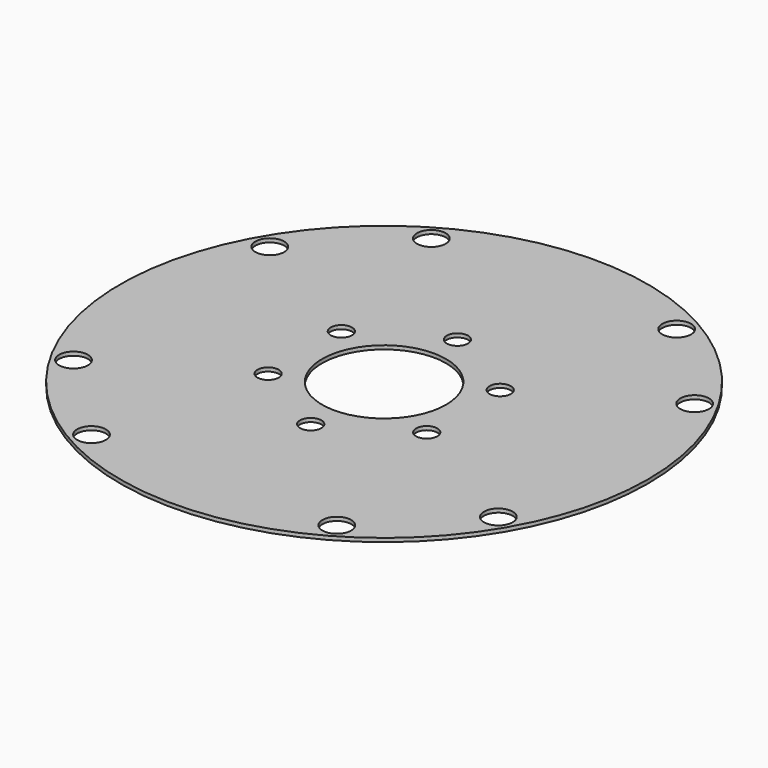
from build123d import *

# Parameters (mm, degrees)
F0_R     = 27.051
F0_R_2   = 6.35
F1_DEPTH = 0.381
F2_D     = 2.9464
F3_D     = 2.1844


with BuildPart() as f1:
    # F0 (on Top) → F1 (new body)
    with BuildSketch(Plane.XY):
        Circle(F0_R)
        Circle(F0_R_2, mode=Mode.SUBTRACT)
    extrude(amount=F1_DEPTH)

    # F2 (through all)
    with Locations(Plane(origin=(0, 0, 0), x_dir=(1, 0, 0), z_dir=(0, 0, -1))):
        with Locations((-21.7678, -12.573), (-12.573, -21.7678), (12.573, -21.7678), (21.7678, -12.573), (21.7678, 12.573), (12.573, 21.7678), (-12.573, 21.7678), (-21.7678, 12.573)):
            Hole(F2_D / 2)

    # F3 (through all)
    with Locations(Plane(origin=(0, 0, 0), x_dir=(1, 0, 0), z_dir=(0, 0, -1))):
        with Locations((0, 9.398), (8.128, 4.699), (-8.1389067448, -4.699), (0, 0), (0.0054533724, -9.388554482), (8.1389067448, -4.699), (-8.1334533724, 4.689554482)):
            Hole(F3_D / 2)


solid = f1.part
